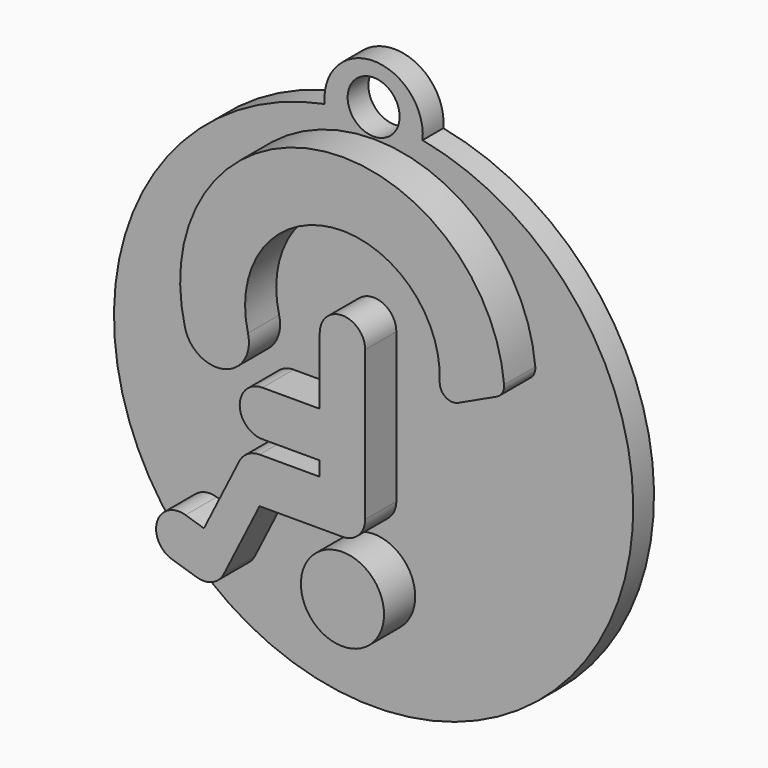
from build123d import *

# Parameters (mm, degrees)
F1_DEPTH = 5
F0_R     = 3.20253673
F0_R_2   = 2
F2_DEPTH = 2
F3_SCALE = 0.65


with BuildPart() as f1:
    # F0 (on Front) → F1 (new body)
    with BuildSketch(Plane.XZ):
        with BuildLine():
            ThreePointArc((11.8780601229, 6.1050535555), (12.3216651376, 6.5117042248), (12.4515672404, 7.0993058071))
            ThreePointArc((12.4515672404, 7.0993058071), (-2.0690604399, 18.3275702755), (-12.1281641394, 2.9738416091))
            ThreePointArc((-12.1281641394, 2.9738416091), (-9.0972996334, 1.1534404594), (-7.2768984837, 4.1843049654))
            ThreePointArc((-7.2768984837, 4.1843049654), (-0.7521606693, 13.4621883069), (7.4928698579, 5.6730423685))
            ThreePointArc((7.4928698579, 5.6730423685), (7.9363593577, 4.797971444), (8.914537434, 4.7231402306))
            Line((8.914537434, 4.7231402306), (11.8780601229, 6.1050535555))
        make_face()
    extrude(amount=F1_DEPTH)



with BuildPart() as f1b:
    # F0 (on Front) → F1, piece 2 (new body)
    with BuildSketch(Plane.XZ):
        with BuildLine():
            Line((1.75, -5.5069764979), (1.75, 6))
            ThreePointArc((1.75, 6), (0, 7.75), (-1.75, 6))
            Line((-1.75, 6), (-1.75, 0.8516268172))
            Line((-1.75, 0.8516268172), (-6.1623816362, 0.8516268172))
            ThreePointArc((-6.1623816362, 0.8516268172), (-7.9123816362, -0.8983731828), (-6.1623816362, -2.6483731828))
            Line((-6.1623816362, -2.6483731828), (-1.75, -2.6483731828))
            Line((-1.75, -2.6483731828), (-1.75, -3.7569764979))
            Line((-1.75, -3.7569764979), (-6.3856970519, -3.7569764979))
            ThreePointArc((-6.3856970519, -3.7569764979), (-7.3053342322, -4.0180952211), (-7.9505319996, -4.7235279761))
            Line((-7.9505319996, -4.7235279761), (-10.669789277, -10.1548852399))
            Line((-10.669789277, -10.1548852399), (-12.0862811892, -9.7137152259))
            ThreePointArc((-12.0862811892, -9.7137152259), (-14.2775052272, -10.8641661007), (-13.1270543524, -13.0553901387))
            Line((-13.1270543524, -13.0553901387), (-11.2260873483, -13.6474511541))
            ThreePointArc((-11.2260873483, -13.6474511541), (-10.0204395919, -13.5868674423), (-9.140865819, -12.7600622194))
            Line((-9.140865819, -12.7600622194), (-6.3856970519, -7.2569764979))
            Line((-6.3856970519, -7.2569764979), (0, -7.2569764979))
            ThreePointArc((0, -7.2569764979), (1.2374368671, -6.744413365), (1.75, -5.5069764979))
        make_face()
    extrude(amount=F1_DEPTH)


with BuildPart() as f1c:
    # F0 (on Front) → F1, piece 3 (new body)
    with BuildSketch(Plane.XZ):
        with Locations((0, -11.4851715043)):
            Circle(F0_R)
    extrude(amount=F1_DEPTH)


with BuildPart() as f1_1:
    add(f1.part)

    add(f1b.part)  # F2 merges F1b

    add(f1c.part)  # F2 merges F1c
    # F0 (on Front) → F2 (join)
    with BuildSketch(Plane.XZ):
        with BuildLine():
            ThreePointArc((3.7704463979, 19.6413781075), (0, 23.7874629637), (-3.7704463979, 19.6413781075))
            ThreePointArc((-3.7704463979, 19.6413781075), (0, -20), (3.7704463979, 19.6413781075))
        make_face()
        with Locations((0, -11.4851715043)):
            Circle(F0_R, mode=Mode.SUBTRACT)
        with BuildLine():
            ThreePointArc((-1.75, 6), (0, 7.75), (1.75, 6))
            Line((1.75, 6), (1.75, -5.5069764979))
            ThreePointArc((1.75, -5.5069764979), (1.2374368671, -6.744413365), (0, -7.2569764979))
            Line((0, -7.2569764979), (-6.3856970519, -7.2569764979))
            Line((-6.3856970519, -7.2569764979), (-9.140865819, -12.7600622194))
            ThreePointArc((-9.140865819, -12.7600622194), (-10.0204395919, -13.5868674423), (-11.2260873483, -13.6474511541))
            Line((-11.2260873483, -13.6474511541), (-13.1270543524, -13.0553901387))
            ThreePointArc((-13.1270543524, -13.0553901387), (-14.2775052272, -10.8641661007), (-12.0862811892, -9.7137152259))
            Line((-12.0862811892, -9.7137152259), (-10.669789277, -10.1548852399))
            Line((-10.669789277, -10.1548852399), (-7.9505319996, -4.7235279761))
            ThreePointArc((-7.9505319996, -4.7235279761), (-7.3053342322, -4.0180952211), (-6.3856970519, -3.7569764979))
            Line((-6.3856970519, -3.7569764979), (-1.75, -3.7569764979))
            Line((-1.75, -3.7569764979), (-1.75, -2.6483731828))
            Line((-1.75, -2.6483731828), (-6.1623816362, -2.6483731828))
            ThreePointArc((-6.1623816362, -2.6483731828), (-7.9123816362, -0.8983731828), (-6.1623816362, 0.8516268172))
            Line((-6.1623816362, 0.8516268172), (-1.75, 0.8516268172))
            Line((-1.75, 0.8516268172), (-1.75, 6))
        make_face(mode=Mode.SUBTRACT)
        with BuildLine():
            ThreePointArc((-12.1281641394, 2.9738416091), (-2.0690604399, 18.3275702755), (12.4515672404, 7.0993058071))
            ThreePointArc((12.4515672404, 7.0993058071), (12.3216651376, 6.5117042248), (11.8780601229, 6.1050535555))
            Line((11.8780601229, 6.1050535555), (8.914537434, 4.7231402306))
            ThreePointArc((8.914537434, 4.7231402306), (7.9363593577, 4.797971444), (7.4928698579, 5.6730423685))
            ThreePointArc((7.4928698579, 5.6730423685), (-0.7521606693, 13.4621883069), (-7.2768984837, 4.1843049654))
            ThreePointArc((-7.2768984837, 4.1843049654), (-9.0972996334, 1.1534404594), (-12.1281641394, 2.9738416091))
        make_face(mode=Mode.SUBTRACT)
        with Locations((0, 20.6641051918)):
            Circle(F0_R_2, mode=Mode.SUBTRACT)
        with BuildLine():
            ThreePointArc((3.7704463979, 19.6413781075), (0, 23.7874629637), (-3.7704463979, 19.6413781075))
            ThreePointArc((-3.7704463979, 19.6413781075), (0, -20), (3.7704463979, 19.6413781075))
        make_face()
        with Locations((0, -11.4851715043)):
            Circle(F0_R, mode=Mode.SUBTRACT)
        with BuildLine():
            ThreePointArc((-1.75, 6), (0, 7.75), (1.75, 6))
            Line((1.75, 6), (1.75, -5.5069764979))
            ThreePointArc((1.75, -5.5069764979), (1.2374368671, -6.744413365), (0, -7.2569764979))
            Line((0, -7.2569764979), (-6.3856970519, -7.2569764979))
            Line((-6.3856970519, -7.2569764979), (-9.140865819, -12.7600622194))
            ThreePointArc((-9.140865819, -12.7600622194), (-10.0204395919, -13.5868674423), (-11.2260873483, -13.6474511541))
            Line((-11.2260873483, -13.6474511541), (-13.1270543524, -13.0553901387))
            ThreePointArc((-13.1270543524, -13.0553901387), (-14.2775052272, -10.8641661007), (-12.0862811892, -9.7137152259))
            Line((-12.0862811892, -9.7137152259), (-10.669789277, -10.1548852399))
            Line((-10.669789277, -10.1548852399), (-7.9505319996, -4.7235279761))
            ThreePointArc((-7.9505319996, -4.7235279761), (-7.3053342322, -4.0180952211), (-6.3856970519, -3.7569764979))
            Line((-6.3856970519, -3.7569764979), (-1.75, -3.7569764979))
            Line((-1.75, -3.7569764979), (-1.75, -2.6483731828))
            Line((-1.75, -2.6483731828), (-6.1623816362, -2.6483731828))
            ThreePointArc((-6.1623816362, -2.6483731828), (-7.9123816362, -0.8983731828), (-6.1623816362, 0.8516268172))
            Line((-6.1623816362, 0.8516268172), (-1.75, 0.8516268172))
            Line((-1.75, 0.8516268172), (-1.75, 6))
        make_face(mode=Mode.SUBTRACT)
        with BuildLine():
            ThreePointArc((-12.1281641394, 2.9738416091), (-2.0690604399, 18.3275702755), (12.4515672404, 7.0993058071))
            ThreePointArc((12.4515672404, 7.0993058071), (12.3216651376, 6.5117042248), (11.8780601229, 6.1050535555))
            Line((11.8780601229, 6.1050535555), (8.914537434, 4.7231402306))
            ThreePointArc((8.914537434, 4.7231402306), (7.9363593577, 4.797971444), (7.4928698579, 5.6730423685))
            ThreePointArc((7.4928698579, 5.6730423685), (-0.7521606693, 13.4621883069), (-7.2768984837, 4.1843049654))
            ThreePointArc((-7.2768984837, 4.1843049654), (-9.0972996334, 1.1534404594), (-12.1281641394, 2.9738416091))
        make_face(mode=Mode.SUBTRACT)
        with Locations((0, 20.6641051918)):
            Circle(F0_R_2, mode=Mode.SUBTRACT)
    extrude(amount=F2_DEPTH)


with BuildPart() as f1_2:
    # F3: moved
    add(f1_1.part.scale(F3_SCALE).moved(Location((0, 0, 0))))


solid = f1_2.part
